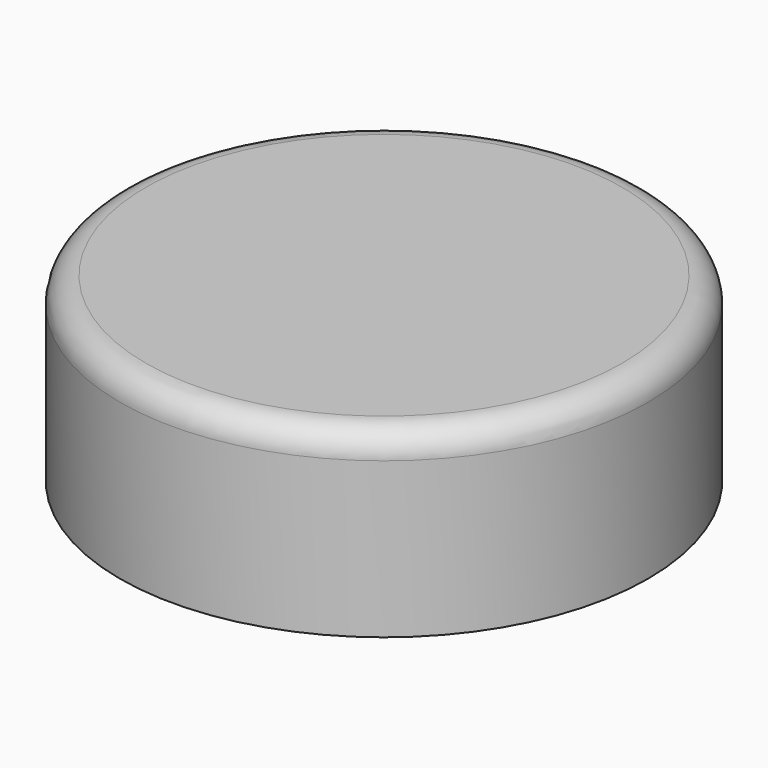
from build123d import *

# Parameters (mm, degrees)
CYLINDER001_R     = 4.02
CYLINDER001_DEPTH = 2.51
CYLINDER_R        = 5.1
CYLINDER_DEPTH    = 3.5
FILLET_R          = 0.5
CYLINDER004_R     = 1.5
CYLINDER004_DEPTH = 3
CYLINDER003_R     = 3.8
CYLINDER003_DEPTH = 2.1
CYLINDER002_R     = 4
CYLINDER002_DEPTH = 2.5


with BuildPart() as cylinder001:
    # Cylinder001 → Cylinder001 (new body)
    with BuildSketch(Plane.XY):
        Circle(CYLINDER001_R)
    extrude(amount=CYLINDER001_DEPTH)


with BuildPart() as fillet_body:
    # Cylinder → Cylinder (new body)
    with BuildSketch(Plane.XY):
        Circle(CYLINDER_R)
    extrude(amount=CYLINDER_DEPTH)

    # Cut: cut Cylinder001
    add(cylinder001.part, mode=Mode.SUBTRACT)

    # Fillet
    fillet_edges = [fillet_body.edges().sort_by_distance(p)[0] for p in [
        (-5.1, 0, 3.5),
    ]]
    fillet(fillet_edges, radius=FILLET_R)


with BuildPart() as cylinder004:
    # Cylinder004 → Cylinder004 (new body)
    with BuildSketch(Plane.XY):
        Circle(CYLINDER004_R)
    extrude(amount=CYLINDER004_DEPTH)


with BuildPart() as fusion:
    # Cylinder003 → Cylinder003 (new body)
    with BuildSketch(Plane.XY):
        Circle(CYLINDER003_R)
    extrude(amount=CYLINDER003_DEPTH)

    # Fusion: union Cylinder004
    add(cylinder004.part)


with BuildPart() as cut001:
    # Cylinder002 → Cylinder002 (new body)
    with BuildSketch(Plane.XY):
        Circle(CYLINDER002_R)
    extrude(amount=CYLINDER002_DEPTH)

    # Cut001: cut Fusion
    add(fusion.part, mode=Mode.SUBTRACT)


solid = Compound([fillet_body.part, cut001.part])
